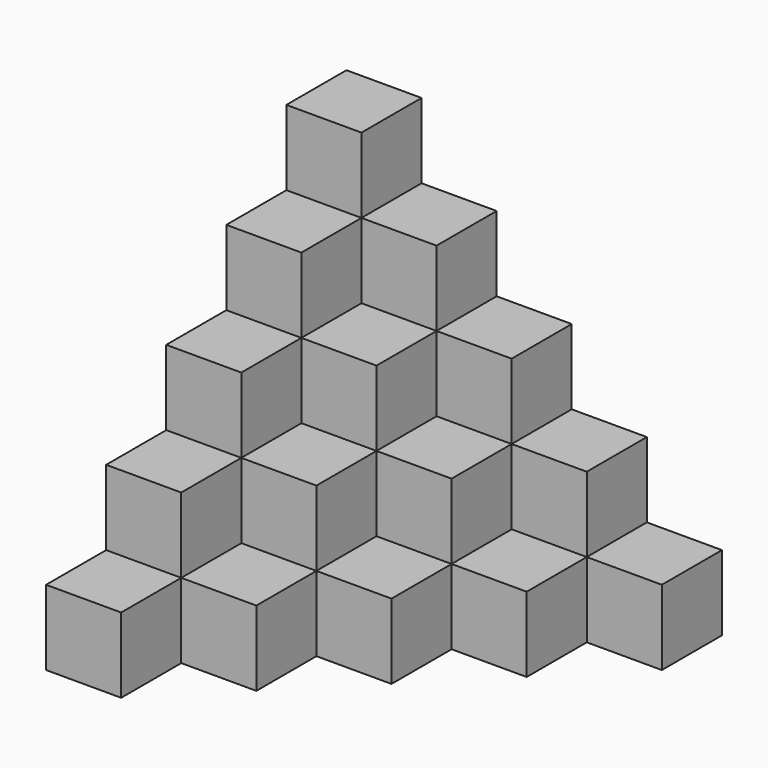
from build123d import *

# Parameters (mm, degrees)
F0_W     = 25.4
F0_H     = 25.4
F1_DEPTH = 25.4
F2_W     = 25.4
F2_H     = 25.4
F3_DEPTH = 50.8
F4_W     = 25.4
F4_H     = 25.4
F5_DEPTH = 76.2
F6_W     = 25.4
F6_H     = 25.4
F7_DEPTH = 101.6
F8_W     = 25.4
F8_H     = 25.4
F9_DEPTH = 127


with BuildPart() as f1:
    # F0 (on Top) → F1 (new body)
    with BuildSketch(Plane.XY):
        with Locations((-25.4, -25.4)):
            Rectangle(F0_W, F0_H)
        with Locations((-50.8, -50.8)):
            Rectangle(F0_W, F0_H)
        Rectangle(F0_W, F0_H)
        with Locations((25.4, 25.4)):
            Rectangle(F0_W, F0_H)
        with Locations((50.8, 50.8)):
            Rectangle(F0_W, F0_H)
    extrude(amount=F1_DEPTH)


with BuildPart() as f3:
    # F2 (on Top) → F3 (new body)
    with BuildSketch(Plane.XY):
        with Locations((-50.8, -25.4)):
            Rectangle(F2_W, F2_H)
        with Locations((25.4, 50.8)):
            Rectangle(F2_W, F2_H)
        with Locations((0, 25.4)):
            Rectangle(F2_W, F2_H)
        with Locations((-25.4, 0)):
            Rectangle(F2_W, F2_H)
    extrude(amount=F3_DEPTH)


with BuildPart() as f5:
    # F4 (on Top) → F5 (new body)
    with BuildSketch(Plane.XY):
        with Locations((-50.8, 0)):
            Rectangle(F4_W, F4_H)
        with Locations((-25.4, 25.4)):
            Rectangle(F4_W, F4_H)
        with Locations((0, 50.8)):
            Rectangle(F4_W, F4_H)
    extrude(amount=F5_DEPTH)


with BuildPart() as f7:
    # F6 (on Top) → F7 (new body)
    with BuildSketch(Plane.XY):
        with Locations((-50.8, 25.4)):
            Rectangle(F6_W, F6_H)
        with Locations((-25.4, 50.8)):
            Rectangle(F6_W, F6_H)
    extrude(amount=F7_DEPTH)


with BuildPart() as f9:
    # F8 (on Top) → F9 (new body)
    with BuildSketch(Plane.XY):
        with Locations((-50.8, 50.8)):
            Rectangle(F8_W, F8_H)
    extrude(amount=F9_DEPTH)


solid = Compound([f1.part, f3.part, f5.part, f7.part, f9.part])
